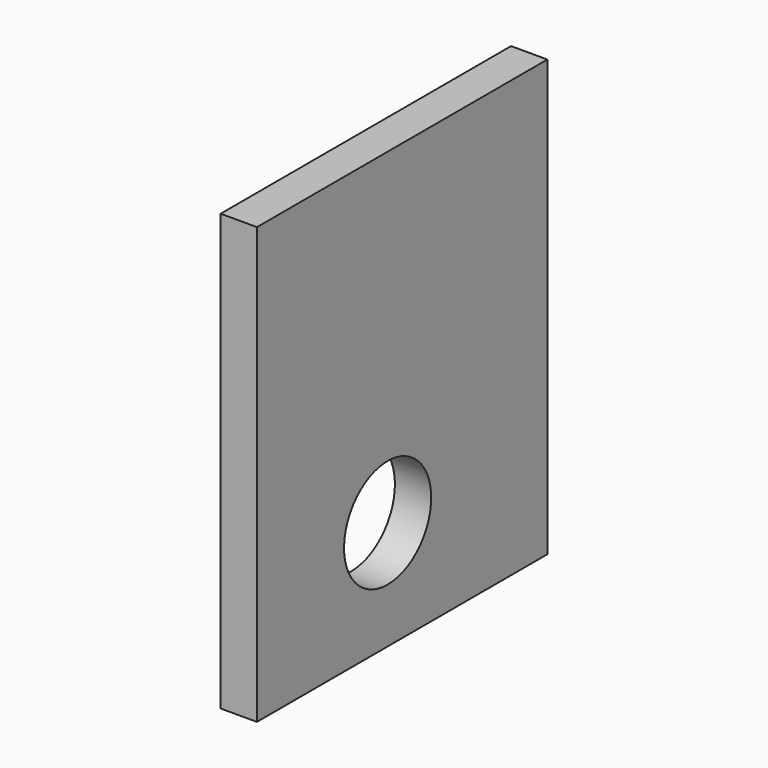
from build123d import *

# Parameters (mm, degrees)
CYLINDER3125_R               = 1.5
CYLINDER3125_DEPTH           = 12
CYLINDER3127_R               = 1.5
CYLINDER3127_DEPTH           = 4
BOX1135_W                    = 6
BOX1135_H                    = 6
BOX1135_DEPTH                = 2
COMPOUND1374_PLACEMENT_ANGLE = 90
BOX1136_W                    = 1
BOX1136_H                    = 10
BOX1136_DEPTH                = 12


with BuildPart() as obj1:
    # Cylinder3125 → Cylinder3125 (new body)
    with BuildSketch(Plane(origin=(1, 14, 6), x_dir=(1, 0, 0), z_dir=(0, 0, 1))):
        Circle(CYLINDER3125_R)
    extrude(amount=CYLINDER3125_DEPTH)


with BuildPart() as obj2:
    # Cylinder3127 → Cylinder3127 (new body)
    with BuildSketch(Plane(origin=(1, 14, -0.1), x_dir=(1, 0, 0), z_dir=(0, 0, 1))):
        Circle(CYLINDER3127_R)
    extrude(amount=CYLINDER3127_DEPTH)


with BuildPart() as compound1374:
    # Box1135 → Box1135 (new body)
    with BuildSketch(Plane(origin=(-2, 11, 4), x_dir=(1, 0, 0), z_dir=(0, 0, 1))):
        with Locations((3, 3)):
            Rectangle(BOX1135_W, BOX1135_H)
    extrude(amount=BOX1135_DEPTH)

    # Compound1374: union obj1, obj2
    add(obj1.part)
    add(obj2.part)


with BuildPart() as compound1374_1:
    # Compound1374 placement: moved
    add(compound1374.part.moved(Location((6, -14, 2))).rotate(Axis((6, -14, 2), (0, 1, 0)), COMPOUND1374_PLACEMENT_ANGLE))


with BuildPart() as cut1267:
    # Box1136 → Box1136 (new body)
    with BuildSketch(Plane(origin=(21.4, -4.5, -2), x_dir=(1, 0, 0), z_dir=(0, 0, 1))):
        with Locations((0.5, 5)):
            Rectangle(BOX1136_W, BOX1136_H)
    extrude(amount=BOX1136_DEPTH)

    # Cut1267: cut Compound1374
    add(compound1374_1.part, mode=Mode.SUBTRACT)


with BuildPart() as cut1267_1:
    # Cut1267 placement: moved
    add(cut1267.part.moved(Location((0.2, 0, 0))))


solid = cut1267_1.part
